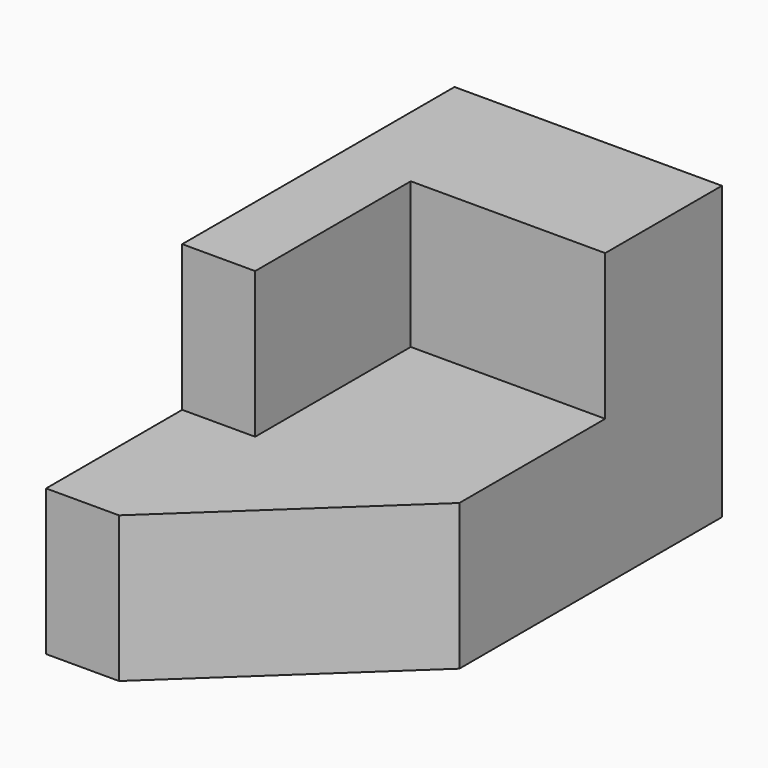
from build123d import *

# Parameters (mm, degrees)
F0_W      = 1778
F0_H      = 1524
F2_DEPTH  = 1397
F1_W      = 889
F1_H      = 762
F3_DEPTH  = 1755.14
F4_W      = 1397
F4_H      = 762
F5_DEPTH  = 1016
F7_DEPTH  = 1226.82
F8_W      = 381
F8_H      = 762
F9_DEPTH  = 1016
F10_W     = 1397
F10_H     = 127
F11_DEPTH = 254000


with BuildPart() as f2:
    # F0 (on Right) → F2 (new body)
    with BuildSketch(Plane.YZ):
        with Locations((889, -762)):
            Rectangle(F0_W, F0_H)
    extrude(amount=-F2_DEPTH)

    # F1 (on face) → F3 (cut)
    with BuildSketch(Plane.YZ):
        with Locations((444.5, -381)):
            Rectangle(F1_W, F1_H)
    extrude(amount=-F3_DEPTH, mode=Mode.SUBTRACT)

    # F4 (on face) → F5 (join)
    with BuildSketch(Plane.XZ):
        with Locations((-698.5, -1143)):
            Rectangle(F4_W, F4_H)
    extrude(amount=F5_DEPTH)

    # F6 (on face) → F7 (cut)
    with BuildSketch(Plane.XY.offset(-762)):
        Polygon((0, -1016), (0, -63.5), (-1015.920877, -1016), align=None)
    extrude(amount=-F7_DEPTH, mode=Mode.SUBTRACT)

    # F8 (on face) → F9 (join)
    with BuildSketch(Plane.XZ.offset(-889)):
        with Locations((-1206.5, -381)):
            Rectangle(F8_W, F8_H)
    extrude(amount=F9_DEPTH)

    # F10 (on face) → F11 (cut)
    with BuildSketch(Plane.XY):
        with Locations((-698.5, 1714.5)):
            Rectangle(F10_W, F10_H)
    extrude(amount=-F11_DEPTH, mode=Mode.SUBTRACT)


solid = f2.part
